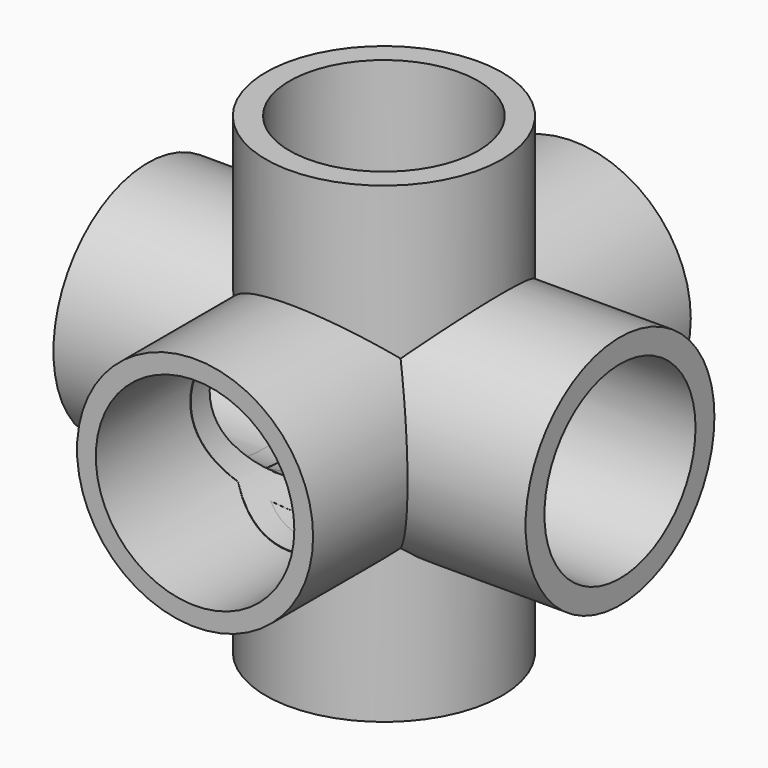
from build123d import *

# Parameters (mm, degrees)
F2_R          = 50
F2_R_2        = 40
F3_DEPTH      = 100
F3_DEPTH_BACK = 100
F0_R          = 50
F0_R_2        = 42.044179
F4_DEPTH      = 100
F4_DEPTH_BACK = 100
F1_R          = 50
F1_R_2        = 40
F5_DEPTH      = 100
F5_DEPTH_BACK = 100
F6_R          = 41.82056
F7_DEPTH      = 200.001
F8_R          = 39.896025
F9_DEPTH      = 200.001


with BuildPart() as f3:
    # F2 (on Right) → F3 (new body, two sides)
    with BuildSketch(Plane.YZ) as f3_sk:
        Circle(F2_R)
        Circle(F2_R_2, mode=Mode.SUBTRACT)
    extrude(amount=F3_DEPTH)
    extrude(f3_sk.sketch, amount=-F3_DEPTH_BACK)

    # F0 (on Front) → F4 (join, two sides)
    with BuildSketch(Plane.XZ) as f4_sk:
        Circle(F0_R)
        Circle(F0_R_2, mode=Mode.SUBTRACT)
    extrude(amount=F4_DEPTH)
    extrude(f4_sk.sketch, amount=-F4_DEPTH_BACK)

    # F1 (on Top) → F5 (join, two sides)
    with BuildSketch(Plane.XY) as f5_sk:
        Circle(F1_R)
        Circle(F1_R_2, mode=Mode.SUBTRACT)
    extrude(amount=F5_DEPTH)
    extrude(f5_sk.sketch, amount=-F5_DEPTH_BACK)

    # F6 (on face) → F7 (cut, through all)
    with BuildSketch(Plane.XZ.offset(100)):
        Circle(F6_R)
    extrude(amount=-F7_DEPTH, mode=Mode.SUBTRACT)

    # F8 (on face) → F9 (cut, through all)
    with BuildSketch(Plane.YZ.offset(100)):
        Circle(F8_R)
    extrude(amount=-F9_DEPTH, mode=Mode.SUBTRACT)


solid = f3.part
